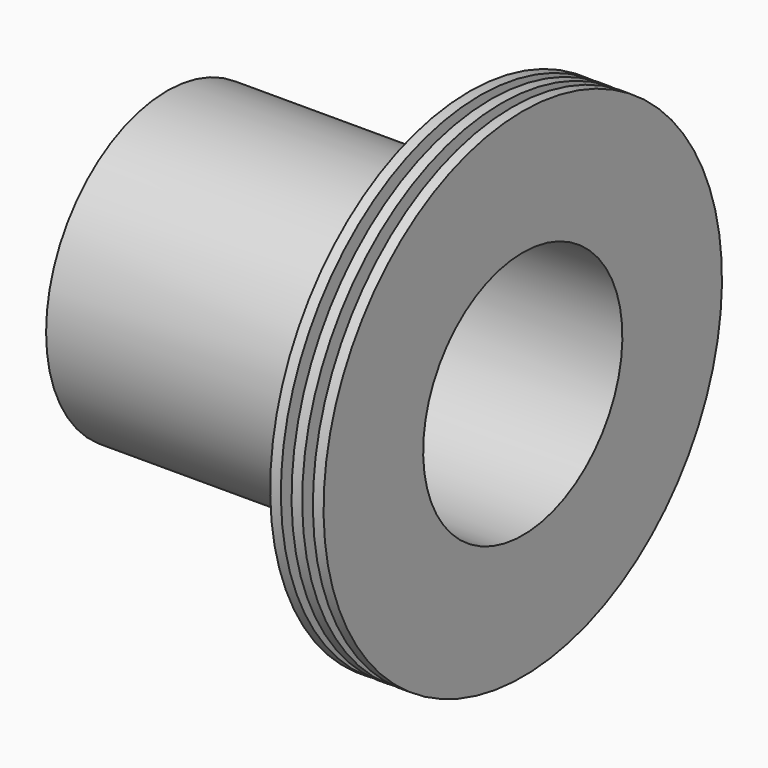
from build123d import *


with BuildPart() as f1:
    # F0 (on Front) → F1 (revolve)
    with BuildSketch(Plane.XZ):
        with BuildLine():
            Line((-102.970031, -6.875699), (-102.970031, -21.875699))
            Line((-102.970031, -21.875699), (97.029969, -21.875699))
            Line((97.029969, -21.875699), (97.029969, 48.124301))
            Line((97.029969, 48.124301), (91.029969, 48.124301))
            Line((91.029969, 48.124301), (91.029969, -4.875699))
            ThreePointArc((91.029969, -4.875699), (90.444182, -6.289912), (89.029969, -6.875699))
            Line((89.029969, -6.875699), (87.029969, -6.875699))
            ThreePointArc((87.029969, -6.875699), (85.615755, -6.289912), (85.029969, -4.875699))
            Line((85.029969, -4.875699), (85.029969, 48.124301))
            Line((85.029969, 48.124301), (79.029969, 48.124301))
            Line((79.029969, 48.124301), (79.029969, -4.875699))
            ThreePointArc((79.029969, -4.875699), (78.444182, -6.289912), (77.029969, -6.875699))
            Line((77.029969, -6.875699), (75.029969, -6.875699))
            ThreePointArc((75.029969, -6.875699), (73.615755, -6.289912), (73.029969, -4.875699))
            Line((73.029969, -4.875699), (73.029969, 48.124301))
            Line((73.029969, 48.124301), (67.029969, 48.124301))
            Line((67.029969, 48.124301), (67.029969, -4.875699))
            ThreePointArc((67.029969, -4.875699), (66.444182, -6.289912), (65.029969, -6.875699))
            Line((65.029969, -6.875699), (-102.970031, -6.875699))
        make_face()
    revolve(axis=Axis((-4.417114, 0, -91.875699), (1, 0, 0)))


solid = f1.part
